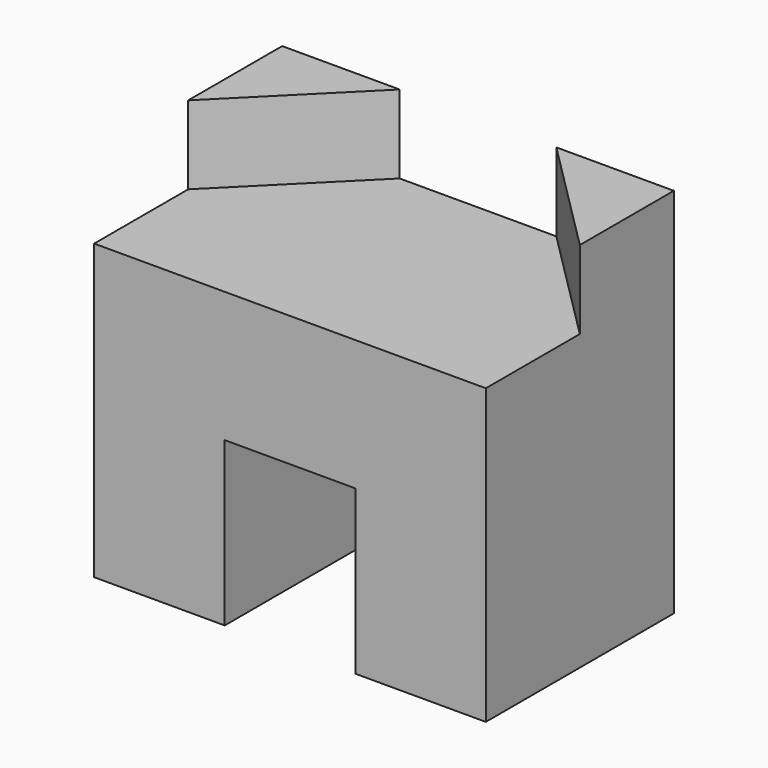
from build123d import *

# Parameters (mm, degrees)
F0_W     = 600
F0_H     = 570
F1_DEPTH = 360
F2_W     = 200
F2_H     = 500
F3_DEPTH = 360.001
F5_DEPTH = 120


with BuildPart() as f1:
    # F0 (on Front) → F1 (new body)
    with BuildSketch(Plane.XZ):
        Rectangle(F0_W, F0_H)
    extrude(amount=F1_DEPTH)

    # F2 (on face) → F3 (cut, through all)
    with BuildSketch(Plane.XZ.offset(360)):
        with Locations((0, -285)):
            Rectangle(F2_W, F2_H)
    extrude(amount=-F3_DEPTH, mode=Mode.SUBTRACT)

    # F4 (on face) → F5 (cut)
    with BuildSketch(Plane.XY.offset(285)):
        Polygon((-300, -180), (-300, -360), (300, -360), (300, -180), (120, 0), (-120, 0), align=None)
    extrude(amount=-F5_DEPTH, mode=Mode.SUBTRACT)


solid = f1.part
